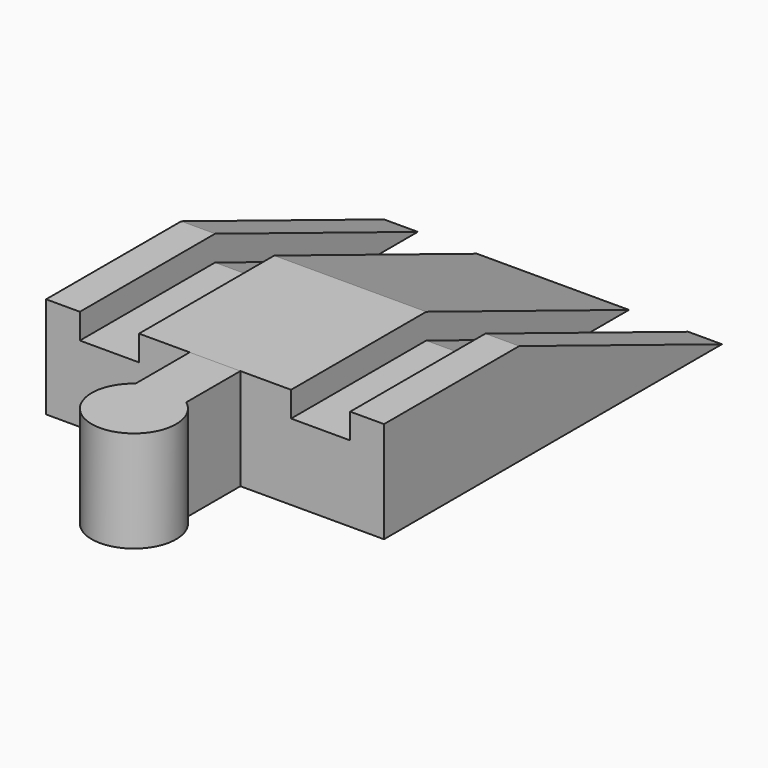
from build123d import *

# Parameters (mm, degrees)
SKETCH002_W  = 40
SKETCH002_H  = 12
POCKET_DEPTH = 50.001
PAD_DEPTH    = 6


with BuildPart() as body:
    # AdditivePipe: sweep along a path in Sketch
    with BuildLine(Plane.YZ) as additivepipe_path:
        Line((0, 0), (20, 0))
        Line((20, 0), (50, -12))
    # Sketch001 → AdditivePipe (sweep)
    with BuildSketch(Plane.XZ):
        Polygon((-20, 6), (-20, -6), (20, -6), (20, 6), (16, 6), (16, 3), (9, 3), (9, 6), (-9, 6), (-9, 3), (-16, 3), (-16, 6), align=None)
    sweep(path=additivepipe_path.line)

    # Sketch002 → Pocket (cut, through all)
    with BuildSketch(Plane.XZ):
        with Locations((0, -12)):
            Rectangle(SKETCH002_W, SKETCH002_H)
    extrude(amount=-POCKET_DEPTH, mode=Mode.SUBTRACT)


with BuildPart() as body001:
    # Sketch003 → Pad (new body, symmetric)
    with BuildSketch(Plane.XY):
        with BuildLine():
            Line((-3, 0), (3, 0))
            Line((3, 0), (3, -8))
            ThreePointArc((-3, -8), (0, -17), (3, -8))
            Line((-3, 0), (-3, -8))
        make_face()
    extrude(amount=PAD_DEPTH, both=True)


solid = Compound([body.part, body001.part])
